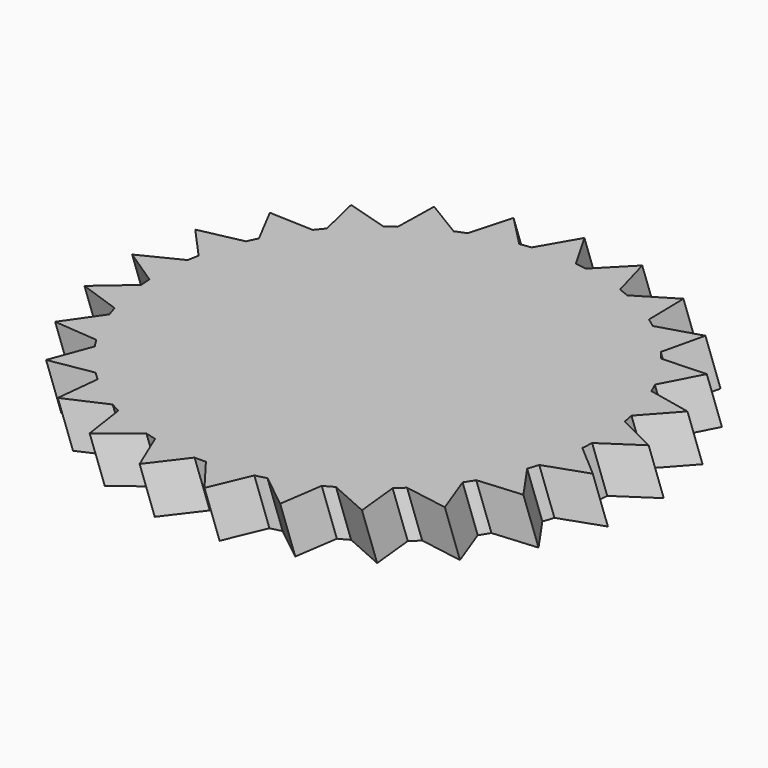
from build123d import *


with BuildPart() as f2:
    # F2: sweep along a path in F1
    with BuildLine(Plane.XZ) as f2_path:
        Line((0, 0), (-0.868731, 2.386819))
    # F0 (on Top) → F2 (sweep)
    with BuildSketch(Plane.XY):
        with BuildLine():
            Line((0, 14.836045), (-1.27, 12.63634))
            ThreePointArc((-1.27, 12.63634), (-1.591732, 12.599857), (-1.912429, 12.555183))
            Line((-1.912429, 12.555183), (-3.689574, 14.369943))
            Line((-3.689574, 14.369943), (-4.372631, 11.92351))
            ThreePointArc((-4.372631, 11.92351), (-4.675182, 11.808161), (-4.974694, 11.685137))
            Line((-4.974694, 11.685137), (-7.147319, 13.000925))
            Line((-7.147319, 13.000925), (-7.200513, 10.461482))
            ThreePointArc((-7.200513, 10.461482), (-7.464873, 10.274516), (-7.72438, 10.080871))
            Line((-7.72438, 10.080871), (-10.155972, 10.815011))
            Line((-10.155972, 10.815011), (-9.57596, 8.342121))
            ThreePointArc((-9.57596, 8.342121), (-9.785518, 8.095285), (-9.988715, 7.843186))
            Line((-9.988715, 7.843186), (-12.526487, 7.94955))
            Line((-12.526487, 7.94955), (-11.349715, 5.698593))
            ThreePointArc((-11.349715, 5.698593), (-11.491304, 5.407397), (-11.625422, 5.112686))
            Line((-11.625422, 5.112686), (-14.109917, 4.58459))
            Line((-14.109917, 4.58459), (-12.410326, 2.697002))
            ThreePointArc((-12.410326, 2.697002), (-12.475048, 2.379743), (-12.531662, 2.060936))
            Line((-12.531662, 2.060936), (-14.806769, 0.931563))
            Line((-14.806769, 0.931563), (-12.691149, -0.474052))
            ThreePointArc((-12.691149, -0.474052), (-12.674939, -0.79744), (-12.65049, -1.120309))
            Line((-12.65049, -1.120309), (-14.573258, -2.779998))
            Line((-14.573258, -2.779998), (-12.174542, -3.615319))
            ThreePointArc((-12.174542, -3.615319), (-12.078418, -3.924516), (-11.974442, -4.231162))
            Line((-11.974442, -4.231162), (-13.424055, -6.316881))
            Line((-13.424055, -6.316881), (-10.892963, -6.529422))
            ThreePointArc((-10.892963, -6.529422), (-10.722965, -6.805), (-10.545996, -7.076155))
            Line((-10.545996, -7.076155), (-11.431369, -9.456851))
            Line((-11.431369, -9.456851), (-8.926939, -9.033258))
            ThreePointArc((-8.926939, -9.033258), (-8.693748, -9.257902), (-8.454906, -9.476527))
            Line((-8.454906, -9.476527), (-8.720408, -12.002613))
            Line((-8.720408, -12.002613), (-6.400003, -10.969501))
            ThreePointArc((-6.400003, -10.969501), (-6.118272, -11.129095), (-5.832563, -11.281454))
            Line((-5.832563, -11.281454), (-5.461512, -13.794206))
            Line((-5.461512, -13.794206), (-3.470931, -12.21649))
            ThreePointArc((-3.470931, -12.21649), (-3.158362, -12.301006), (-2.843739, -12.377526))
            Line((-2.843739, -12.377526), (-1.859449, -14.719058))
            Line((-1.859449, -14.719058), (-0.323768, -12.695872))
            ThreePointArc((-0.323768, -12.695872), (0, -12.7), (0.323768, -12.695872))
            Line((0.323768, -12.695872), (1.859449, -14.719058))
            Line((1.859449, -14.719058), (2.843739, -12.377526))
            ThreePointArc((2.843739, -12.377526), (3.158362, -12.301006), (3.470931, -12.21649))
            Line((3.470931, -12.21649), (5.461512, -13.794206))
            Line((5.461512, -13.794206), (5.832563, -11.281454))
            ThreePointArc((5.832563, -11.281454), (6.118272, -11.129095), (6.400003, -10.969501))
            Line((6.400003, -10.969501), (8.720408, -12.002613))
            Line((8.720408, -12.002613), (8.454906, -9.476527))
            ThreePointArc((8.454906, -9.476527), (8.693748, -9.257902), (8.926939, -9.033258))
            Line((8.926939, -9.033258), (11.431369, -9.456851))
            Line((11.431369, -9.456851), (10.545996, -7.076155))
            ThreePointArc((10.545996, -7.076155), (10.722965, -6.805), (10.892963, -6.529422))
            Line((10.892963, -6.529422), (13.424055, -6.316881))
            Line((13.424055, -6.316881), (11.974442, -4.231162))
            ThreePointArc((11.974442, -4.231162), (12.078418, -3.924516), (12.174542, -3.615319))
            Line((12.174542, -3.615319), (14.573258, -2.779998))
            Line((14.573258, -2.779998), (12.65049, -1.120309))
            ThreePointArc((12.65049, -1.120309), (12.674939, -0.79744), (12.691149, -0.474052))
            Line((12.691149, -0.474052), (14.806769, 0.931563))
            Line((14.806769, 0.931563), (12.531662, 2.060936))
            ThreePointArc((12.531662, 2.060936), (12.475048, 2.379743), (12.410326, 2.697002))
            Line((12.410326, 2.697002), (14.109917, 4.58459))
            Line((14.109917, 4.58459), (11.625422, 5.112686))
            ThreePointArc((11.625422, 5.112686), (11.491304, 5.407397), (11.349715, 5.698593))
            Line((11.349715, 5.698593), (12.526487, 7.94955))
            Line((12.526487, 7.94955), (9.988715, 7.843186))
            ThreePointArc((9.988715, 7.843186), (9.785518, 8.095285), (9.57596, 8.342121))
            Line((9.57596, 8.342121), (10.155972, 10.815011))
            Line((10.155972, 10.815011), (7.72438, 10.080871))
            ThreePointArc((7.72438, 10.080871), (7.464873, 10.274516), (7.200513, 10.461482))
            Line((7.200513, 10.461482), (7.147319, 13.000925))
            Line((7.147319, 13.000925), (4.974694, 11.685137))
            ThreePointArc((4.974694, 11.685137), (4.675182, 11.808161), (4.372631, 11.92351))
            Line((4.372631, 11.92351), (3.689574, 14.369943))
            Line((3.689574, 14.369943), (1.912429, 12.555183))
            ThreePointArc((1.912429, 12.555183), (1.591732, 12.599857), (1.27, 12.63634))
            Line((1.27, 12.63634), (0, 14.836045))
        make_face()
    sweep(path=f2_path.line)


solid = f2.part
